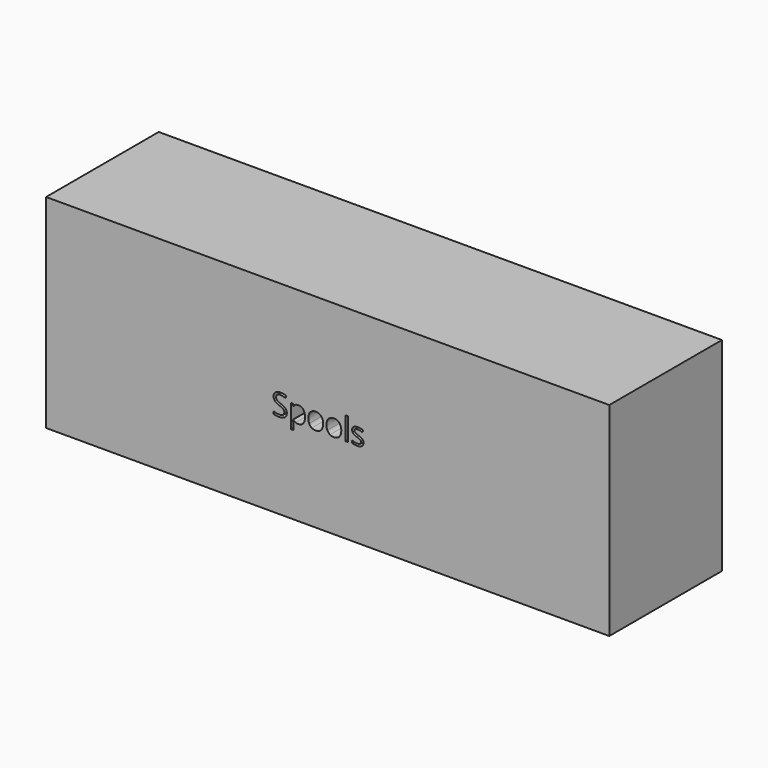
from build123d import *

# Parameters (mm, degrees)
F0_W     = 228.6
F0_H     = 82.55
F0_W_2   = 0.9890613534
F0_H_2   = 9.2674477103
F1_DEPTH = 57.15


with BuildPart() as f1:
    # F0 (on Front) → F1 (new body)
    with BuildSketch(Plane.XZ):
        with Locations((3.5904032292, 41.275)):
            Rectangle(F0_W, F0_H)
        with BuildLine():
            add(Edge.make_bspline(
                [(-13.5127555372, 38.577611584), (-12.9982149487, 38.0173340543), (-12.9982149487, 37.125463701)],
                knots=[0, 0, 0, 1, 1, 1], degree=2))
            add(Edge.make_bspline(
                [(-12.9982149487, 37.125463701), (-12.9982149487, 35.9763230533), (-13.8319612726, 35.3321944648)],
                knots=[0, 0, 0, 1, 1, 1], degree=2))
            add(Edge.make_bspline(
                [(-13.8319612726, 35.3321944648), (-14.6657075966, 34.6880658763), (-16.094987009, 34.6880658763)],
                knots=[0, 0, 0, 1, 1, 1], degree=2))
            add(Edge.make_bspline(
                [(-16.094987009, 34.6880658763), (-17.6424201862, 34.6880658763), (-18.4771193631, 35.0882641117)],
                knots=[0, 0, 0, 1, 1, 1], degree=2))
            Line((-18.4771193631, 35.0882641117), (-18.4771193631, 36.063985524))
            add(Edge.make_bspline(
                [(-18.4771193631, 36.063985524), (-17.939710304, 35.8391122297), (-17.3089216567, 35.7076185238)],
                knots=[0, 0, 0, 1, 1, 1], degree=2))
            add(Edge.make_bspline(
                [(-17.3089216567, 35.7076185238), (-16.6781330093, 35.5761248179), (-16.0587785972, 35.5761248179)],
                knots=[0, 0, 0, 1, 1, 1], degree=2))
            add(Edge.make_bspline(
                [(-16.0587785972, 35.5761248179), (-15.0468487732, 35.5761248179), (-14.5342138906, 35.9601245533)],
                knots=[0, 0, 0, 1, 1, 1], degree=2))
            add(Edge.make_bspline(
                [(-14.5342138906, 35.9601245533), (-14.021579008, 36.3441242888), (-14.021579008, 37.0301784068)],
                knots=[0, 0, 0, 1, 1, 1], degree=2))
            add(Edge.make_bspline(
                [(-14.021579008, 37.0301784068), (-14.021579008, 37.4818307011), (-14.2035739199, 37.7705451424)],
                knots=[0, 0, 0, 1, 1, 1], degree=2))
            add(Edge.make_bspline(
                [(-14.2035739199, 37.7705451424), (-14.3855688317, 38.0592595838), (-14.8114940966, 38.3041427898)],
                knots=[0, 0, 0, 1, 1, 1], degree=2))
            add(Edge.make_bspline(
                [(-14.8114940966, 38.3041427898), (-15.2374193616, 38.5490259958), (-16.1064212443, 38.8577503489)],
                knots=[0, 0, 0, 1, 1, 1], degree=2))
            add(Edge.make_bspline(
                [(-16.1064212443, 38.8577503489), (-17.320355892, 39.2922512902), (-17.841566451, 39.8877843788)],
                knots=[0, 0, 0, 1, 1, 1], degree=2))
            add(Edge.make_bspline(
                [(-17.841566451, 39.8877843788), (-18.3627770101, 40.4833174673), (-18.3627770101, 41.4418875266)],
                knots=[0, 0, 0, 1, 1, 1], degree=2))
            add(Edge.make_bspline(
                [(-18.3627770101, 41.4418875266), (-18.3627770101, 42.4481002329), (-17.6071646274, 43.0436333215)],
                knots=[0, 0, 0, 1, 1, 1], degree=2))
            add(Edge.make_bspline(
                [(-17.6071646274, 43.0436333215), (-16.8515522447, 43.63916641), (-15.605220597, 43.63916641)],
                knots=[0, 0, 0, 1, 1, 1], degree=2))
            add(Edge.make_bspline(
                [(-15.605220597, 43.63916641), (-14.3074348905, 43.63916641), (-13.2173711253, 43.1627399392)],
                knots=[0, 0, 0, 1, 1, 1], degree=2))
            Line((-13.2173711253, 43.1627399392), (-13.5337183019, 42.2823038211))
            add(Edge.make_bspline(
                [(-13.5337183019, 42.2823038211), (-14.6123478318, 42.7339561154), (-15.6299947735, 42.7339561154)],
                knots=[0, 0, 0, 1, 1, 1], degree=2))
            add(Edge.make_bspline(
                [(-15.6299947735, 42.7339561154), (-16.4342026563, 42.7339561154), (-16.8868078035, 42.3890233506)],
                knots=[0, 0, 0, 1, 1, 1], degree=2))
            add(Edge.make_bspline(
                [(-16.8868078035, 42.3890233506), (-17.3394129508, 42.0440905857), (-17.3394129508, 41.4304532913)],
                knots=[0, 0, 0, 1, 1, 1], degree=2))
            add(Edge.make_bspline(
                [(-17.3394129508, 41.4304532913), (-17.3394129508, 40.9788009969), (-17.172663686, 40.6891337027)],
                knots=[0, 0, 0, 1, 1, 1], degree=2))
            add(Edge.make_bspline(
                [(-17.172663686, 40.6891337027), (-17.0059144212, 40.3994664084), (-16.6095275975, 40.1583946142)],
                knots=[0, 0, 0, 1, 1, 1], degree=2))
            add(Edge.make_bspline(
                [(-16.6095275975, 40.1583946142), (-16.2131407738, 39.9173228199), (-15.3974986558, 39.6257498198)],
                knots=[0, 0, 0, 1, 1, 1], degree=2))
            add(Edge.make_bspline(
                [(-15.3974986558, 39.6257498198), (-14.0272961257, 39.1378891137), (-13.5127555372, 38.577611584)],
                knots=[0, 0, 0, 1, 1, 1], degree=2))
        make_face(mode=Mode.SUBTRACT)
        with BuildLine():
            add(Edge.make_bspline(
                [(-6.3349143279, 35.5789833767), (-7.0524125929, 34.6880658763), (-8.3273298288, 34.6880658763)],
                knots=[0, 0, 0, 1, 1, 1], degree=2))
            add(Edge.make_bspline(
                [(-8.3273298288, 34.6880658763), (-8.9657412997, 34.6880658763), (-9.4926689764, 34.9234205528)],
                knots=[0, 0, 0, 1, 1, 1], degree=2))
            add(Edge.make_bspline(
                [(-9.4926689764, 34.9234205528), (-10.0195966532, 35.1587752294), (-10.3759636533, 35.6485416414)],
                knots=[0, 0, 0, 1, 1, 1], degree=2))
            Line((-10.3759636533, 35.6485416414), (-10.4483804769, 35.6485416414))
            add(Edge.make_bspline(
                [(-10.4483804769, 35.6485416414), (-10.3759636533, 35.0768298764), (-10.3759636533, 34.5641949938)],
                knots=[0, 0, 0, 1, 1, 1], degree=2))
            Line((-10.3759636533, 34.5641949938), (-10.3759636533, 31.8771496984))
            Line((-10.3759636533, 31.8771496984), (-11.3650250068, 31.8771496984))
            Line((-11.3650250068, 31.8771496984), (-11.3650250068, 41.3351679971))
            Line((-11.3650250068, 41.3351679971), (-10.560817124, 41.3351679971))
            Line((-10.560817124, 41.3351679971), (-10.4236063004, 40.4413919378))
            Line((-10.4236063004, 40.4413919378), (-10.3759636533, 40.4413919378))
            add(Edge.make_bspline(
                [(-10.3759636533, 40.4413919378), (-9.9948224767, 40.9788009969), (-9.4888575647, 41.2170142323)],
                knots=[0, 0, 0, 1, 1, 1], degree=2))
            add(Edge.make_bspline(
                [(-9.4888575647, 41.2170142323), (-8.9828926527, 41.4552274677), (-8.3273298288, 41.4552274677)],
                knots=[0, 0, 0, 1, 1, 1], degree=2))
            add(Edge.make_bspline(
                [(-8.3273298288, 41.4552274677), (-7.0295441223, 41.4552274677), (-6.3234800926, 40.5671685261)],
                knots=[0, 0, 0, 1, 1, 1], degree=2))
            add(Edge.make_bspline(
                [(-6.3234800926, 40.5671685261), (-5.6174160628, 39.6791095845), (-5.6174160628, 38.0783166426)],
                knots=[0, 0, 0, 1, 1, 1], degree=2))
            add(Edge.make_bspline(
                [(-5.6174160628, 38.0783166426), (-5.6174160628, 36.4699008771), (-6.3349143279, 35.5789833767)],
                knots=[0, 0, 0, 1, 1, 1], degree=2))
        make_face(mode=Mode.SUBTRACT)
        with BuildLine():
            add(Edge.make_bspline(
                [(0.9353536168, 40.5433472026), (1.7424200584, 39.6314669375), (1.7424200584, 38.0783166426)],
                knots=[0, 0, 0, 1, 1, 1], degree=2))
            add(Edge.make_bspline(
                [(1.7424200584, 38.0783166426), (1.7424200584, 36.4813351124), (0.9391650286, 35.5847004943)],
                knots=[0, 0, 0, 1, 1, 1], degree=2))
            add(Edge.make_bspline(
                [(0.9391650286, 35.5847004943), (0.1359099988, 34.6880658763), (-1.2819351784, 34.6880658763)],
                knots=[0, 0, 0, 1, 1, 1], degree=2))
            add(Edge.make_bspline(
                [(-1.2819351784, 34.6880658763), (-2.1585598847, 34.6880658763), (-2.8369911791, 35.099698347)],
                knots=[0, 0, 0, 1, 1, 1], degree=2))
            add(Edge.make_bspline(
                [(-2.8369911791, 35.099698347), (-3.5154224736, 35.5113308178), (-3.8851294149, 36.2793302888)],
                knots=[0, 0, 0, 1, 1, 1], degree=2))
            add(Edge.make_bspline(
                [(-3.8851294149, 36.2793302888), (-4.2548363563, 37.0473297597), (-4.2548363563, 38.0783166426)],
                knots=[0, 0, 0, 1, 1, 1], degree=2))
            add(Edge.make_bspline(
                [(-4.2548363563, 38.0783166426), (-4.2548363563, 39.6733924669), (-3.4563455912, 40.5643099673)],
                knots=[0, 0, 0, 1, 1, 1], degree=2))
            add(Edge.make_bspline(
                [(-3.4563455912, 40.5643099673), (-2.6578548261, 41.4552274677), (-1.2400096489, 41.4552274677)],
                knots=[0, 0, 0, 1, 1, 1], degree=2))
            add(Edge.make_bspline(
                [(-1.2400096489, 41.4552274677), (0.1282871753, 41.4552274677), (0.9353536168, 40.5433472026)],
                knots=[0, 0, 0, 1, 1, 1], degree=2))
        make_face(mode=Mode.SUBTRACT)
        with BuildLine():
            add(Edge.make_bspline(
                [(8.3028125615, 40.5433472026), (9.1098790031, 39.6314669375), (9.1098790031, 38.0783166426)],
                knots=[0, 0, 0, 1, 1, 1], degree=2))
            add(Edge.make_bspline(
                [(9.1098790031, 38.0783166426), (9.1098790031, 36.4813351124), (8.3066239733, 35.5847004943)],
                knots=[0, 0, 0, 1, 1, 1], degree=2))
            add(Edge.make_bspline(
                [(8.3066239733, 35.5847004943), (7.5033689435, 34.6880658763), (6.0855237664, 34.6880658763)],
                knots=[0, 0, 0, 1, 1, 1], degree=2))
            add(Edge.make_bspline(
                [(6.0855237664, 34.6880658763), (5.2088990601, 34.6880658763), (4.5304677656, 35.099698347)],
                knots=[0, 0, 0, 1, 1, 1], degree=2))
            add(Edge.make_bspline(
                [(4.5304677656, 35.099698347), (3.8520364712, 35.5113308178), (3.4823295298, 36.2793302888)],
                knots=[0, 0, 0, 1, 1, 1], degree=2))
            add(Edge.make_bspline(
                [(3.4823295298, 36.2793302888), (3.1126225885, 37.0473297597), (3.1126225885, 38.0783166426)],
                knots=[0, 0, 0, 1, 1, 1], degree=2))
            add(Edge.make_bspline(
                [(3.1126225885, 38.0783166426), (3.1126225885, 39.6733924669), (3.9111133535, 40.5643099673)],
                knots=[0, 0, 0, 1, 1, 1], degree=2))
            add(Edge.make_bspline(
                [(3.9111133535, 40.5643099673), (4.7096041186, 41.4552274677), (6.1274492958, 41.4552274677)],
                knots=[0, 0, 0, 1, 1, 1], degree=2))
            add(Edge.make_bspline(
                [(6.1274492958, 41.4552274677), (7.49574612, 41.4552274677), (8.3028125615, 40.5433472026)],
                knots=[0, 0, 0, 1, 1, 1], degree=2))
        make_face(mode=Mode.SUBTRACT)
        with BuildLine():
            add(Edge.make_bspline(
                [(17.731292419, 37.6666841718), (18.1391134781, 37.2379003481), (18.1391134781, 36.5880546419)],
                knots=[0, 0, 0, 1, 1, 1], degree=2))
            add(Edge.make_bspline(
                [(18.1391134781, 36.5880546419), (18.1391134781, 35.6771272297), (17.4606821836, 35.182596553)],
                knots=[0, 0, 0, 1, 1, 1], degree=2))
            add(Edge.make_bspline(
                [(17.4606821836, 35.182596553), (16.7822508892, 34.6880658763), (15.5549763003, 34.6880658763)],
                knots=[0, 0, 0, 1, 1, 1], degree=2))
            add(Edge.make_bspline(
                [(15.5549763003, 34.6880658763), (14.2571905938, 34.6880658763), (13.5311166523, 35.099698347)],
                knots=[0, 0, 0, 1, 1, 1], degree=2))
            Line((13.5311166523, 35.099698347), (13.5311166523, 36.0163428769))
            add(Edge.make_bspline(
                [(13.5311166523, 36.0163428769), (14.0018260055, 35.7781296415), (14.5401879175, 35.6418716708)],
                knots=[0, 0, 0, 1, 1, 1], degree=2))
            add(Edge.make_bspline(
                [(14.5401879175, 35.6418716708), (15.0785498295, 35.5056137002), (15.5797504768, 35.5056137002)],
                knots=[0, 0, 0, 1, 1, 1], degree=2))
            add(Edge.make_bspline(
                [(15.5797504768, 35.5056137002), (16.3534670654, 35.5056137002), (16.7698638009, 35.7524026121)],
                knots=[0, 0, 0, 1, 1, 1], degree=2))
            add(Edge.make_bspline(
                [(16.7698638009, 35.7524026121), (17.1862605364, 35.9991915239), (17.1862605364, 36.5061092889)],
                knots=[0, 0, 0, 1, 1, 1], degree=2))
            add(Edge.make_bspline(
                [(17.1862605364, 36.5061092889), (17.1862605364, 36.8872504655), (16.8565734186, 37.157860701)],
                knots=[0, 0, 0, 1, 1, 1], degree=2))
            add(Edge.make_bspline(
                [(16.8565734186, 37.157860701), (16.5268863008, 37.4284709364), (15.5664105356, 37.7981778778)],
                knots=[0, 0, 0, 1, 1, 1], degree=2))
            add(Edge.make_bspline(
                [(15.5664105356, 37.7981778778), (14.6554831234, 38.137393525), (14.271483388, 38.3908524074)],
                knots=[0, 0, 0, 1, 1, 1], degree=2))
            add(Edge.make_bspline(
                [(14.271483388, 38.3908524074), (13.8874836525, 38.6443112899), (13.699771623, 38.9654227313)],
                knots=[0, 0, 0, 1, 1, 1], degree=2))
            add(Edge.make_bspline(
                [(13.699771623, 38.9654227313), (13.5120595935, 39.2865341726), (13.5120595935, 39.7324693493)],
                knots=[0, 0, 0, 1, 1, 1], degree=2))
            add(Edge.make_bspline(
                [(13.5120595935, 39.7324693493), (13.5120595935, 40.5309601144), (14.1619052997, 40.9930937911)],
                knots=[0, 0, 0, 1, 1, 1], degree=2))
            add(Edge.make_bspline(
                [(14.1619052997, 40.9930937911), (14.8117510059, 41.4552274677), (15.9418345946, 41.4552274677)],
                knots=[0, 0, 0, 1, 1, 1], degree=2))
            add(Edge.make_bspline(
                [(15.9418345946, 41.4552274677), (16.9956899481, 41.4552274677), (18.0038083603, 41.026443644)],
                knots=[0, 0, 0, 1, 1, 1], degree=2))
            Line((18.0038083603, 41.026443644), (17.6512527719, 40.2222357613))
            add(Edge.make_bspline(
                [(17.6512527719, 40.2222357613), (16.6698142421, 40.6262454085), (15.871323477, 40.6262454085)],
                knots=[0, 0, 0, 1, 1, 1], degree=2))
            add(Edge.make_bspline(
                [(15.871323477, 40.6262454085), (15.168118006, 40.6262454085), (14.8107981529, 40.406136379)],
                knots=[0, 0, 0, 1, 1, 1], degree=2))
            add(Edge.make_bspline(
                [(14.8107981529, 40.406136379), (14.4534782998, 40.1860273495), (14.4534782998, 39.7991690552)],
                knots=[0, 0, 0, 1, 1, 1], degree=2))
            add(Edge.make_bspline(
                [(14.4534782998, 39.7991690552), (14.4534782998, 39.5361816433), (14.5878305646, 39.3522810256)],
                knots=[0, 0, 0, 1, 1, 1], degree=2))
            add(Edge.make_bspline(
                [(14.5878305646, 39.3522810256), (14.7221828293, 39.1683804078), (15.0194729471, 39.001631143)],
                knots=[0, 0, 0, 1, 1, 1], degree=2))
            add(Edge.make_bspline(
                [(15.0194729471, 39.001631143), (15.3167630649, 38.8348818783), (16.1628964771, 38.5185347016)],
                knots=[0, 0, 0, 1, 1, 1], degree=2))
            add(Edge.make_bspline(
                [(16.1628964771, 38.5185347016), (17.32347136, 38.0954679955), (17.731292419, 37.6666841718)],
                knots=[0, 0, 0, 1, 1, 1], degree=2))
        make_face(mode=Mode.SUBTRACT)
        with Locations((11.3386020336, 39.4418492021)):
            Rectangle(F0_W_2, F0_H_2, mode=Mode.SUBTRACT)
    extrude(amount=F1_DEPTH)


solid = f1.part
